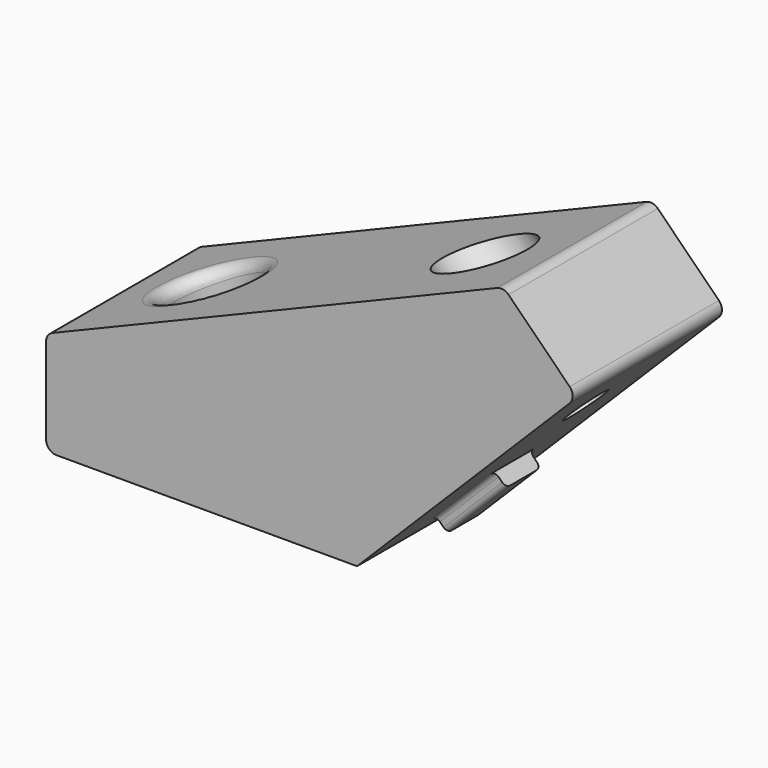
from build123d import *

# Parameters (mm, degrees)
F1_DEPTH  = 18
F2_R      = 2.1
F3_DEPTH  = 25
F4_START  = -9
F2_R_2    = 4.1
F4_DEPTH  = 16
F6_START  = -9
F5_R      = 4.1
F5_R_2    = 2.1
F6_DEPTH  = 16
F7_DEPTH  = 25
F8_R      = 1
F2_W      = 8
F2_H      = 4.2
F9_DEPTH  = 1.5
F5_W      = 4.2
F5_H      = 8
F10_DEPTH = 1.5
F11_R     = 0.5


with BuildPart() as f1:
    # F0 (on Front) → F1 (new body)
    with BuildSketch(Plane.XZ):
        Polygon((-30, 10), (-30, 0), (0, 0), (21.2132034356, 21.2132034356), (14.1421356237, 28.2842712475), align=None)
    extrude(amount=F1_DEPTH)

    # F2 (on face) → F3 (cut)
    with BuildSketch(Plane(origin=(0, 0, 0), x_dir=(1, 0, 0), z_dir=(0, 0, -1))):
        with Locations((-21, 9)):
            Circle(F2_R)
    extrude(amount=-F3_DEPTH, mode=Mode.SUBTRACT)

    # F2 (on face) → F4 (cut)
    with BuildSketch(Plane(origin=(0, 0, 0), x_dir=(1, 0, 0), z_dir=(0, 0, -1)).offset(F4_START)):
        with Locations((-21, 9)):
            Circle(F2_R_2)
        with Locations((-21, 9)):
            Circle(F2_R, mode=Mode.SUBTRACT)
    extrude(amount=-F4_DEPTH, mode=Mode.SUBTRACT)

    # F5 (on face) → F6 (cut)
    with BuildSketch(Plane(origin=(0, 0, 0), x_dir=(0, 1, 0), z_dir=(0.7071067812, 0, -0.7071067812)).offset(F6_START)):
        with Locations((-9, 21)):
            Circle(F5_R)
        with Locations((-9, 21)):
            Circle(F5_R_2, mode=Mode.SUBTRACT)
    extrude(amount=-F6_DEPTH, mode=Mode.SUBTRACT)

    # F5 (on face) → F7 (cut)
    with BuildSketch(Plane(origin=(0, 0, 0), x_dir=(0, 1, 0), z_dir=(0.7071067812, 0, -0.7071067812))):
        with Locations((-9, 21)):
            Circle(F5_R_2)
    extrude(amount=-F7_DEPTH, mode=Mode.SUBTRACT)

    # F8
    f8_edges = [f1.edges().sort_by_distance(p)[0] for p in [
        (-30, -9, 0),
        (-30, -9, 10),
        (21.213203, -9, 21.213203),
        (14.142136, -9, 28.284271),
        (-25.1, -8.999972, 12.029646),
    ]]
    fillet(f8_edges, radius=F8_R)

    # F2 (on face) → F9 (join)
    with BuildSketch(Plane(origin=(0, 0, 0), x_dir=(1, 0, 0), z_dir=(0, 0, -1))):
        with Locations((-7, 9)):
            Rectangle(F2_W, F2_H)
    extrude(amount=F9_DEPTH)

    # F5 (on face) → F10 (join)
    with BuildSketch(Plane(origin=(0, 0, 0), x_dir=(0, 1, 0), z_dir=(0.7071067812, 0, -0.7071067812))):
        with Locations((-9, 7)):
            Rectangle(F5_W, F5_H)
    extrude(amount=F10_DEPTH)

    # F11
    f11_edges = [f1.edges().sort_by_distance(p)[0] for p in [
        (-7, -6.9, 0),
        (-7, -6.9, -1.5),
        (-7, -11.1, -1.5),
        (-7, -11.1, 0),
        (4.949747, -11.1, 4.949747),
        (6.010408, -11.1, 3.889087),
        (6.010408, -6.9, 3.889087),
        (4.949747, -6.9, 4.949747),
    ]]
    fillet(f11_edges, radius=F11_R)


solid = f1.part
